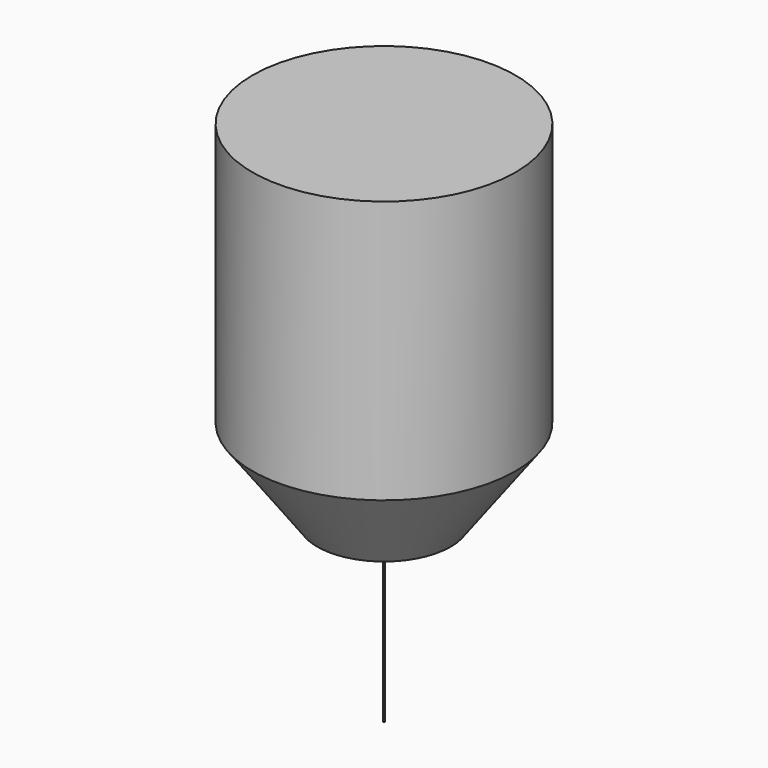
from build123d import *


with BuildPart() as part:
    # Sketch → Revolution (revolve)
    with BuildSketch(Plane.XZ):
        Polygon((0, 30), (0, 0), (0.05, 0), (0.05, 10), (3.8, 10), (7.5, 15), (7.5, 30), align=None)
    revolve(axis=Axis((0, 0, 0), (0, 0, 1)))


solid = part.part
